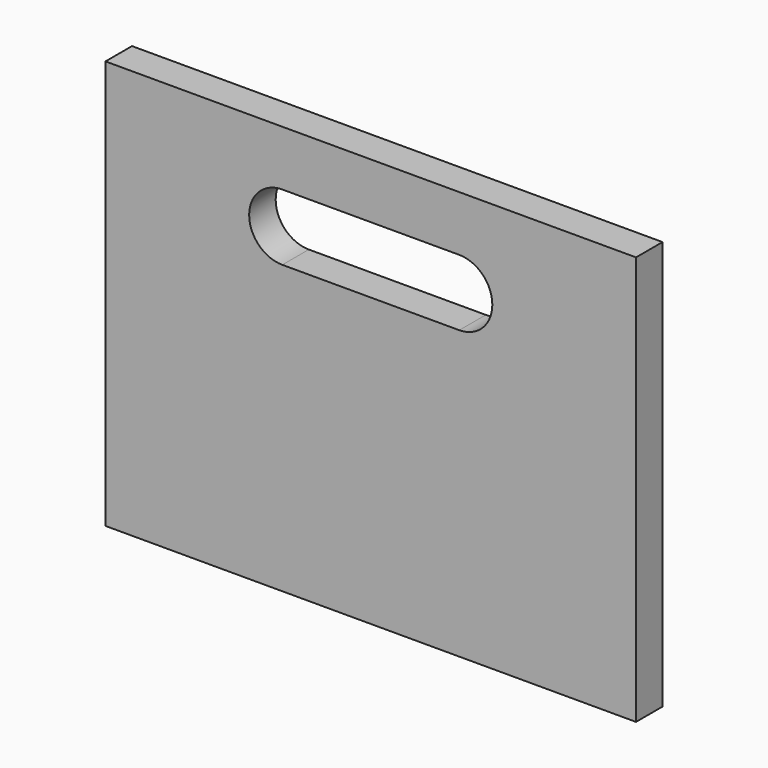
from build123d import *

# Parameters (mm, degrees)
F0_W     = 304.8
F0_H     = 234.95
F1_DEPTH = 19.05


with BuildPart() as f1:
    # F0 (on Front) → F1 (new body)
    with BuildSketch(Plane.XZ):
        with Locations((152.4, 117.475)):
            Rectangle(F0_W, F0_H)
        with BuildLine():
            ThreePointArc((101.6, 165.1), (82.55, 184.15), (101.6, 203.2))
            Line((101.6, 203.2), (203.2, 203.2))
            ThreePointArc((203.2, 203.2), (216.670384, 197.620384), (222.25, 184.15))
            ThreePointArc((222.25, 184.15), (216.693368, 170.702638), (203.265062, 165.100111))
            Line((203.265062, 165.100111), (101.6, 165.1))
        make_face(mode=Mode.SUBTRACT)
    extrude(amount=F1_DEPTH)


solid = f1.part
